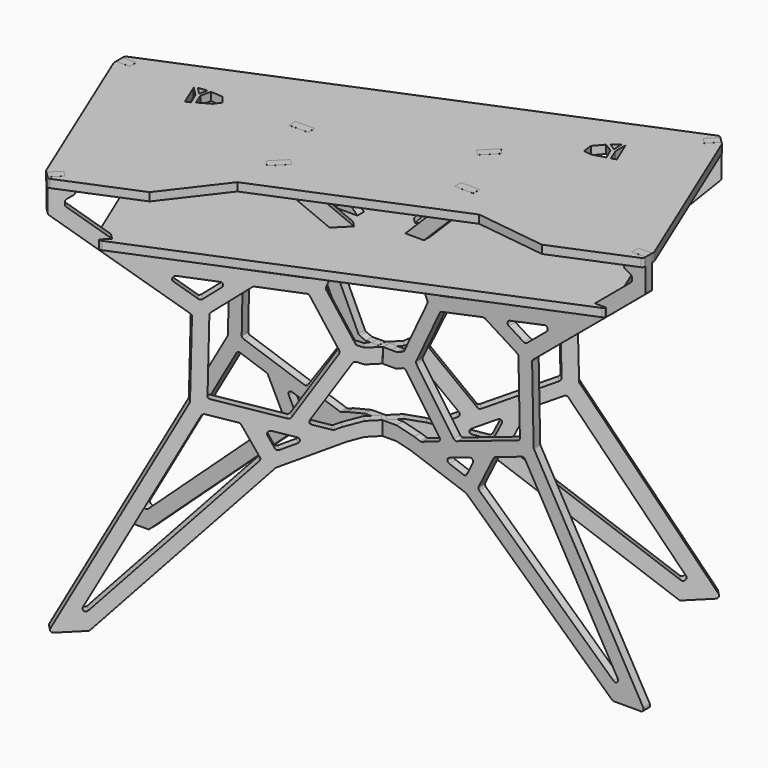
from build123d import *

# Parameters (mm, degrees)
F6_DEPTH  = 9.525
F7_DEPTH  = 9.525
F8_W      = 37.281513
F8_H      = 19.064931
F8_W_2    = 33.670588
F8_H_2    = 19.051635
F9_DEPTH  = 19.05
F10_DEPTH = 9.525
F11_DEPTH = 9.525
F13_DEPTH = 19.05


with BuildPart() as f6:
    # F4 (on face) → F6 (new body, symmetric)
    with BuildSketch(Plane(origin=(-60.899116, 60.899116, 0), x_dir=(-0.707107, -0.707107, 0), z_dir=(-0.707107, 0.707107, 0))):
        with BuildLine():
            ThreePointArc((-524.050759, -541.279179), (-524.021318, -547.612059), (-518.531923, -550.770031))
            Line((-518.531923, -550.770031), (-455.733476, -550.770031))
            ThreePointArc((-455.733476, -550.770031), (-453.422328, -550.334513), (-451.428203, -549.087698))
            Line((-451.428203, -549.087698), (-113.375128, -237.280804))
            ThreePointArc((-113.375128, -237.280804), (-112.346752, -236.509314), (-111.184061, -235.960765))
            Line((-111.184061, -235.960765), (17.108403, -190.661839))
            ThreePointArc((17.108403, -190.661839), (17.415521, -190.562105), (17.727311, -190.478113))
            Line((17.727311, -190.478113), (49.6691, -182.738825))
            Line((49.6691, -182.738825), (63.010707, -182.738825))
            Line((63.010707, -182.738825), (82.060707, -182.738825))
            Line((82.060707, -182.738825), (82.060707, -150.070156))
            Line((82.060707, -150.070156), (72.532403, -150.070156))
            Line((72.532403, -150.070156), (63.0041, -150.070156))
            Line((63.0041, -150.070156), (49.6691, -150.070156))
            Line((49.6691, -150.070156), (8.680172, -160.001506))
            ThreePointArc((8.680172, -160.001506), (8.368381, -160.085499), (8.061264, -160.185232))
            Line((8.061264, -160.185232), (-4.977376, -164.78906))
            ThreePointArc((-4.977376, -164.78906), (-7.049685, -165.151215), (-9.126592, -164.816437))
            Line((-9.126592, -164.816437), (-47.036335, -151.990897))
            ThreePointArc((-47.036335, -151.990897), (-51.032377, -147.963), (-50.213404, -142.348592))
            Line((-50.213404, -142.348592), (27.459192, -30.738162))
            ThreePointArc((27.459192, -30.738162), (30.889647, -28.270442), (35.109132, -28.501994))
            Line((35.109132, -28.501994), (49.6691, -34.555692))
            Line((49.6691, -34.555692), (63.0041, -34.555692))
            Line((63.0041, -34.555692), (82.060707, -34.555692))
            Line((82.060707, -34.555692), (82.060707, -17.363203))
            Line((82.060707, -17.363203), (90.203997, -17.363203))
            Line((90.203997, -17.363203), (90.203997, -34.555692))
            Line((90.203997, -34.555692), (109.253997, -34.555692))
            Line((109.253997, -34.555692), (122.588997, -34.555692))
            Line((122.588997, -34.555692), (137.148964, -28.501994))
            ThreePointArc((137.148964, -28.501994), (141.368449, -28.270442), (144.798905, -30.738162))
            Line((144.798905, -30.738162), (222.471501, -142.348592))
            ThreePointArc((222.471501, -142.348592), (223.290474, -147.963), (219.294432, -151.990897))
            Line((219.294432, -151.990897), (181.384688, -164.816437))
            ThreePointArc((181.384688, -164.816437), (179.307781, -165.151215), (177.235473, -164.78906))
            Line((177.235473, -164.78906), (164.196833, -160.185232))
            ThreePointArc((164.196833, -160.185232), (163.889715, -160.085499), (163.577925, -160.001506))
            Line((163.577925, -160.001506), (122.588997, -150.070156))
            Line((122.588997, -150.070156), (109.253997, -150.070156))
            Line((109.253997, -150.070156), (90.203997, -150.070156))
            Line((90.203997, -150.070156), (90.203997, -182.738825))
            Line((90.203997, -182.738825), (109.253997, -182.738825))
            Line((109.253997, -182.738825), (122.588997, -182.738825))
            Line((122.588997, -182.738825), (154.530785, -190.478113))
            ThreePointArc((154.530785, -190.478113), (154.842576, -190.562105), (155.149693, -190.661839))
            Line((155.149693, -190.661839), (283.442157, -235.960765))
            ThreePointArc((283.442157, -235.960765), (284.604848, -236.509314), (285.633225, -237.280804))
            Line((285.633225, -237.280804), (623.686299, -549.087698))
            ThreePointArc((623.686299, -549.087698), (625.680425, -550.334513), (627.991573, -550.770031))
            Line((627.991573, -550.770031), (690.790019, -550.770031))
            ThreePointArc((690.790019, -550.770031), (696.279414, -547.612059), (696.308855, -541.279179))
            Line((696.308855, -541.279179), (442.307693, -94.970124))
            ThreePointArc((442.307693, -94.970124), (441.704806, -93.51658), (441.477862, -91.959415))
            Line((441.477862, -91.959415), (437.901867, 82.485986))
            ThreePointArc((437.901867, 82.485986), (438.469635, 85.243622), (440.173857, 87.484724))
            Line((440.173857, 87.484724), (699.436917, 304.576421))
            ThreePointArc((699.436917, 304.576421), (701.113909, 306.758418), (701.710241, 309.445015))
            Line((701.710241, 309.445015), (701.710241, 382.679969))
            Line((701.710241, 382.679969), (669.960241, 382.679969))
            Line((669.960241, 382.679969), (669.960241, 363.629969))
            Line((669.960241, 363.629969), (650.910241, 363.629969))
            Line((650.910241, 363.629969), (650.910241, 348.246143))
            ThreePointArc((650.910241, 348.246143), (651.76098, 345.071143), (654.085241, 342.746882))
            Line((654.085241, 342.746882), (666.785241, 335.414534))
            ThreePointArc((666.785241, 335.414534), (669.109502, 333.090272), (669.960241, 329.915272))
            Line((669.960241, 329.915272), (669.960241, 324.270246))
            ThreePointArc((669.960241, 324.270246), (669.363909, 321.583649), (667.686917, 319.401652))
            Line((667.686917, 319.401652), (584.00339, 249.329969))
            Line((584.00339, 249.329969), (584.00339, 230.279969))
            Line((584.00339, 230.279969), (561.252813, 230.279969))
            Line((561.252813, 230.279969), (544.447581, 216.208252))
            ThreePointArc((544.447581, 216.208252), (543.146665, 215.365659), (541.680373, 214.86333))
            Line((541.680373, 214.86333), (224.215549, 147.959178))
            ThreePointArc((224.215549, 147.959178), (220.027078, 148.51285), (217.113075, 151.572006))
            Line((217.113075, 151.572006), (181.77823, 230.279969))
            Line((181.77823, 230.279969), (181.77823, 249.329969))
            Line((181.77823, 249.329969), (164.173635, 249.329969))
            Line((164.173635, 249.329969), (164.173635, 230.279969))
            Line((164.173635, 230.279969), (146.569041, 230.279969))
            Line((146.569041, 230.279969), (192.90485, 128.059493))
            ThreePointArc((192.90485, 128.059493), (193.471166, 125.397137), (192.870757, 122.742261))
            Line((192.870757, 122.742261), (139.352752, 8.592927))
            ThreePointArc((139.352752, 8.592927), (137.992687, 6.699867), (136.041152, 5.425127))
            Line((136.041152, 5.425127), (122.58239, -0.170715))
            Line((122.58239, -0.170715), (76.599707, -0.170715))
            Line((76.599707, -0.170715), (63.0041, -0.170715))
            Line((63.0041, -0.170715), (49.6691, -0.170715))
            Line((49.6691, -0.170715), (36.210337, 5.425127))
            ThreePointArc((36.210337, 5.425127), (34.258802, 6.699867), (32.898738, 8.592927))
            Line((32.898738, 8.592927), (-20.619268, 122.742261))
            ThreePointArc((-20.619268, 122.742261), (-21.219676, 125.397137), (-20.65336, 128.059493))
            Line((-20.65336, 128.059493), (25.682449, 230.279969))
            Line((25.682449, 230.279969), (8.081158, 230.279969))
            Line((8.081158, 230.279969), (8.081158, 249.329969))
            Line((8.081158, 249.329969), (-9.520133, 249.329969))
            Line((-9.520133, 249.329969), (-9.520133, 230.279969))
            Line((-9.520133, 230.279969), (-44.854979, 151.572006))
            ThreePointArc((-44.854979, 151.572006), (-47.768981, 148.51285), (-51.957452, 147.959178))
            Line((-51.957452, 147.959178), (-369.422277, 214.86333))
            ThreePointArc((-369.422277, 214.86333), (-370.888568, 215.365659), (-372.189485, 216.208252))
            Line((-372.189485, 216.208252), (-388.994717, 230.279969))
            Line((-388.994717, 230.279969), (-411.745294, 230.279969))
            Line((-411.745294, 230.279969), (-411.745294, 249.329969))
            Line((-411.745294, 249.329969), (-495.428821, 319.401652))
            ThreePointArc((-495.428821, 319.401652), (-497.105813, 321.583649), (-497.702145, 324.270246))
            Line((-497.702145, 324.270246), (-497.702145, 329.915272))
            ThreePointArc((-497.702145, 329.915272), (-496.851406, 333.090272), (-494.527145, 335.414534))
            Line((-494.527145, 335.414534), (-481.827145, 342.746882))
            ThreePointArc((-481.827145, 342.746882), (-479.502883, 345.071143), (-478.652145, 348.246143))
            Line((-478.652145, 348.246143), (-478.652145, 363.629969))
            Line((-478.652145, 363.629969), (-497.702145, 363.629969))
            Line((-497.702145, 363.629969), (-497.702145, 382.679969))
            Line((-497.702145, 382.679969), (-529.452145, 382.679969))
            Line((-529.452145, 382.679969), (-529.452145, 309.445015))
            ThreePointArc((-529.452145, 309.445015), (-528.855813, 306.758418), (-527.178821, 304.576421))
            Line((-527.178821, 304.576421), (-267.915761, 87.484724))
            ThreePointArc((-267.915761, 87.484724), (-266.211538, 85.243622), (-265.64377, 82.485986))
            Line((-265.64377, 82.485986), (-269.219766, -91.959415))
            ThreePointArc((-269.219766, -91.959415), (-269.446709, -93.51658), (-270.049596, -94.970124))
            Line((-270.049596, -94.970124), (-524.050759, -541.279179))
        make_face()
        with BuildLine():
            Line((-142.797785, -221.225695), (-454.974453, -509.165206))
            ThreePointArc((-454.974453, -509.165206), (-463.230857, -509.468562), (-464.798562, -501.356687))
            Line((-464.798562, -501.356687), (-249.208399, -122.540144))
            ThreePointArc((-249.208399, -122.540144), (-245.947784, -119.746105), (-241.654553, -119.665912))
            Line((-241.654553, -119.665912), (-179.868397, -140.569268))
            ThreePointArc((-179.868397, -140.569268), (-177.727036, -141.801003), (-176.217746, -143.756674))
            Line((-176.217746, -143.756674), (-141.417398, -213.73035))
            ThreePointArc((-141.417398, -213.73035), (-140.858081, -217.708139), (-142.797785, -221.225695))
        make_face(mode=Mode.SUBTRACT)
        with BuildLine():
            Line((-72.845969, -188.752856), (-106.280271, -200.55821))
            ThreePointArc((-106.280271, -200.55821), (-110.778857, -200.455843), (-114.080137, -197.39818))
            Line((-114.080137, -197.39818), (-127.902653, -169.605005))
            ThreePointArc((-127.902653, -169.605005), (-127.00034, -162.600956), (-120.181982, -160.762244))
            Line((-120.181982, -160.762244), (-72.925165, -176.750065))
            ThreePointArc((-72.925165, -176.750065), (-68.610313, -182.723252), (-72.845969, -188.752856))
        make_face(mode=Mode.SUBTRACT)
        with BuildLine():
            Line((300.160749, -169.605005), (286.338234, -197.39818))
            ThreePointArc((286.338234, -197.39818), (283.036953, -200.455843), (278.538367, -200.55821))
            Line((278.538367, -200.55821), (245.104066, -188.752856))
            ThreePointArc((245.104066, -188.752856), (240.86841, -182.723252), (245.183262, -176.750065))
            Line((245.183262, -176.750065), (292.440078, -160.762244))
            ThreePointArc((292.440078, -160.762244), (299.258436, -162.600956), (300.160749, -169.605005))
        make_face(mode=Mode.SUBTRACT)
        with BuildLine():
            Line((313.675494, -213.73035), (348.475843, -143.756674))
            ThreePointArc((348.475843, -143.756674), (349.985132, -141.801003), (352.126494, -140.569268))
            Line((352.126494, -140.569268), (413.91265, -119.665912))
            ThreePointArc((413.91265, -119.665912), (418.205881, -119.746105), (421.466495, -122.540144))
            Line((421.466495, -122.540144), (637.056659, -501.356687))
            ThreePointArc((637.056659, -501.356687), (635.488953, -509.468562), (627.23255, -509.165206))
            Line((627.23255, -509.165206), (315.055882, -221.225695))
            ThreePointArc((315.055882, -221.225695), (313.116178, -217.708139), (313.675494, -213.73035))
        make_face(mode=Mode.SUBTRACT)
        with BuildLine():
            ThreePointArc((-299.692464, 155.503495), (-301.326976, 163.147849), (-294.30632, 166.585606))
            Line((-294.30632, 166.585606), (-213.757912, 149.610425))
            ThreePointArc((-213.757912, 149.610425), (-208.815417, 144.50842), (-211.696495, 138.015493))
            Line((-211.696495, 138.015493), (-246.177685, 116.416685))
            ThreePointArc((-246.177685, 116.416685), (-249.984783, 115.463101), (-253.625247, 116.929506))
            Line((-253.625247, 116.929506), (-299.692464, 155.503495))
        make_face(mode=Mode.SUBTRACT)
        with BuildLine():
            ThreePointArc((-55.429325, 116.243453), (-52.795308, 115.007027), (-50.989332, 112.725525))
            Line((-50.989332, 112.725525), (3.650307, -3.816157))
            ThreePointArc((3.650307, -3.816157), (4.228035, -7.0495), (3.112925, -10.138967))
            Line((3.112925, -10.138967), (-83.623276, -134.773202))
            ThreePointArc((-83.623276, -134.773202), (-86.848167, -137.177033), (-90.870365, -137.161065))
            Line((-90.870365, -137.161065), (-232.992888, -89.078488))
            ThreePointArc((-232.992888, -89.078488), (-235.976659, -86.953691), (-237.290389, -83.534368))
            Line((-237.290389, -83.534368), (-233.870927, 83.274967))
            ThreePointArc((-233.870927, 83.274967), (-233.045972, 86.277094), (-230.893146, 88.52624))
            Line((-230.893146, 88.52624), (-155.783889, 135.574221))
            ThreePointArc((-155.783889, 135.574221), (-153.524515, 136.444769), (-151.103535, 136.406323))
            Line((-151.103535, 136.406323), (-55.429325, 116.243453))
        make_face(mode=Mode.SUBTRACT)
        with BuildLine():
            Line((328.041986, 135.574221), (403.151243, 88.52624))
            ThreePointArc((403.151243, 88.52624), (405.304068, 86.277094), (406.129023, 83.274967))
            Line((406.129023, 83.274967), (409.548485, -83.534368))
            ThreePointArc((409.548485, -83.534368), (408.234756, -86.953691), (405.250984, -89.078488))
            Line((405.250984, -89.078488), (263.128461, -137.161065))
            ThreePointArc((263.128461, -137.161065), (259.106264, -137.177033), (255.881372, -134.773202))
            Line((255.881372, -134.773202), (169.145172, -10.138967))
            ThreePointArc((169.145172, -10.138967), (168.030062, -7.0495), (168.60779, -3.816157))
            Line((168.60779, -3.816157), (223.247429, 112.725525))
            ThreePointArc((223.247429, 112.725525), (225.053405, 115.007027), (227.687422, 116.243453))
            Line((227.687422, 116.243453), (323.361632, 136.406323))
            ThreePointArc((323.361632, 136.406323), (325.782612, 136.444769), (328.041986, 135.574221))
        make_face(mode=Mode.SUBTRACT)
        with BuildLine():
            Line((471.950561, 155.503495), (425.883343, 116.929506))
            ThreePointArc((425.883343, 116.929506), (422.24288, 115.463101), (418.435782, 116.416685))
            Line((418.435782, 116.416685), (383.954591, 138.015493))
            ThreePointArc((383.954591, 138.015493), (381.073514, 144.50842), (386.016009, 149.610425))
            Line((386.016009, 149.610425), (466.564417, 166.585606))
            ThreePointArc((466.564417, 166.585606), (473.585072, 163.147849), (471.950561, 155.503495))
        make_face(mode=Mode.SUBTRACT)
    extrude(amount=F6_DEPTH, both=True)


with BuildPart() as f7:
    # F5 (on Front) → F7 (new body, symmetric)
    with BuildSketch(Plane.XZ):
        with BuildLine():
            ThreePointArc((-731.772078, -541.282135), (-731.742637, -547.615015), (-726.253242, -550.772987))
            Line((-726.253242, -550.772987), (-663.454796, -550.772987))
            ThreePointArc((-663.454796, -550.772987), (-661.143648, -550.337469), (-659.149522, -549.090655))
            Line((-659.149522, -549.090655), (-321.096448, -237.283761))
            ThreePointArc((-321.096448, -237.283761), (-320.068071, -236.51227), (-318.90538, -235.963721))
            Line((-318.90538, -235.963721), (-190.612916, -190.664795))
            ThreePointArc((-190.612916, -190.664795), (-190.305799, -190.565061), (-189.994008, -190.481069))
            Line((-189.994008, -190.481069), (-158.05222, -182.741781))
            Line((-158.05222, -182.741781), (-131.121613, -182.741781))
            Line((-131.121613, -182.741781), (-85.132323, -182.741781))
            Line((-85.132323, -182.741781), (-53.190534, -190.481069))
            ThreePointArc((-53.190534, -190.481069), (-52.878744, -190.565061), (-52.571626, -190.664795))
            Line((-52.571626, -190.664795), (75.720838, -235.963721))
            ThreePointArc((75.720838, -235.963721), (76.883529, -236.51227), (77.911905, -237.283761))
            Line((77.911905, -237.283761), (415.96498, -549.090655))
            ThreePointArc((415.96498, -549.090655), (417.959105, -550.337469), (420.270253, -550.772987))
            Line((420.270253, -550.772987), (483.0687, -550.772987))
            ThreePointArc((483.0687, -550.772987), (488.558095, -547.615015), (488.587536, -541.282135))
            Line((488.587536, -541.282135), (234.586373, -94.97308))
            ThreePointArc((234.586373, -94.97308), (233.983486, -93.519536), (233.756543, -91.962371))
            Line((233.756543, -91.962371), (230.180547, 82.48303))
            ThreePointArc((230.180547, 82.48303), (230.748315, 85.240665), (232.452538, 87.481768))
            Line((232.452538, 87.481768), (491.715598, 304.573464))
            ThreePointArc((491.715598, 304.573464), (493.39259, 306.755462), (493.988922, 309.442059))
            Line((493.988922, 309.442059), (493.988922, 382.677013))
            Line((493.988922, 382.677013), (462.238922, 382.677013))
            Line((462.238922, 382.677013), (462.238922, 363.627013))
            Line((462.238922, 363.627013), (443.188922, 363.627013))
            Line((443.188922, 363.627013), (443.188922, 348.243187))
            ThreePointArc((443.188922, 348.243187), (444.03966, 345.068187), (446.363922, 342.743926))
            Line((446.363922, 342.743926), (459.063922, 335.411577))
            ThreePointArc((459.063922, 335.411577), (461.388183, 333.087316), (462.238922, 329.912316))
            Line((462.238922, 329.912316), (462.238922, 324.26729))
            ThreePointArc((462.238922, 324.26729), (461.64259, 321.580693), (459.965598, 319.398696))
            Line((459.965598, 319.398696), (376.282071, 249.327013))
            Line((376.282071, 249.327013), (376.282071, 230.277013))
            Line((376.282071, 230.277013), (353.531494, 230.277013))
            Line((353.531494, 230.277013), (336.726262, 216.205296))
            ThreePointArc((336.726262, 216.205296), (335.425345, 215.362703), (333.959054, 214.860373))
            Line((333.959054, 214.860373), (16.494229, 147.956222))
            ThreePointArc((16.494229, 147.956222), (12.305758, 148.509894), (9.391756, 151.56905))
            Line((9.391756, 151.56905), (-25.94309, 230.277013))
            Line((-25.94309, 230.277013), (-25.94309, 249.335923))
            Line((-25.94309, 249.335923), (-42.760202, 249.335923))
            Line((-42.760202, 249.335923), (-42.760202, 230.283131))
            Line((-42.760202, 230.283131), (-59.577315, 230.28925))
            Line((-59.577315, 230.28925), (-13.241506, 128.068774))
            ThreePointArc((-13.241506, 128.068774), (-12.67519, 125.406418), (-13.275599, 122.751542))
            Line((-13.275599, 122.751542), (-66.793604, 8.602208))
            ThreePointArc((-66.793604, 8.602208), (-68.153669, 6.709148), (-70.105204, 5.434408))
            Line((-70.105204, 5.434408), (-83.563966, -0.161434))
            Line((-83.563966, -0.161434), (-90.43774, -0.161434))
            Line((-90.43774, -0.161434), (-96.898966, -0.161434))
            Line((-96.898966, -0.161434), (-115.948282, 0))
            Line((-115.948282, 0), (-116.830051, 0))
            Line((-116.830051, 0), (-116.830051, -17.357249))
            Line((-116.830051, -17.357249), (-116.830051, -24.2266))
            Line((-116.830051, -24.2266), (-121.592551, -24.2266))
            Line((-121.592551, -24.2266), (-126.355051, -24.2266))
            Line((-126.355051, -24.2266), (-126.355051, -17.357249))
            Line((-126.355051, -17.357249), (-126.355051, -0.014853))
            Line((-126.355051, -0.014853), (-143.68701, -0.16476))
            Line((-143.68701, -0.16476), (-157.02201, -0.16476))
            Line((-157.02201, -0.16476), (-170.480773, 5.431081))
            ThreePointArc((-170.480773, 5.431081), (-172.432308, 6.705821), (-173.792373, 8.598882))
            Line((-173.792373, 8.598882), (-227.310378, 122.748216))
            ThreePointArc((-227.310378, 122.748216), (-227.910787, 125.403091), (-227.34447, 128.065448))
            Line((-227.34447, 128.065448), (-181.008661, 230.285923))
            Line((-181.008661, 230.285923), (-199.640162, 230.285923))
            Line((-199.640162, 230.285923), (-199.640162, 249.335923))
            Line((-199.640162, 249.335923), (-218.271662, 249.335923))
            Line((-218.271662, 249.335923), (-218.271662, 230.285923))
            Line((-218.271662, 230.285923), (-252.548061, 151.632885))
            ThreePointArc((-252.548061, 151.632885), (-255.459236, 148.525803), (-259.678772, 147.956222))
            Line((-259.678772, 147.956222), (-577.143596, 214.860373))
            ThreePointArc((-577.143596, 214.860373), (-578.609888, 215.362703), (-579.910804, 216.205296))
            Line((-579.910804, 216.205296), (-596.716036, 230.277013))
            Line((-596.716036, 230.277013), (-619.466613, 230.277013))
            Line((-619.466613, 230.277013), (-619.466613, 249.327013))
            Line((-619.466613, 249.327013), (-703.15014, 319.398696))
            ThreePointArc((-703.15014, 319.398696), (-704.827132, 321.580693), (-705.423464, 324.26729))
            Line((-705.423464, 324.26729), (-705.423464, 329.912316))
            ThreePointArc((-705.423464, 329.912316), (-704.572725, 333.087316), (-702.248464, 335.411577))
            Line((-702.248464, 335.411577), (-689.548464, 342.743926))
            ThreePointArc((-689.548464, 342.743926), (-687.224203, 345.068187), (-686.373464, 348.243187))
            Line((-686.373464, 348.243187), (-686.373464, 363.627013))
            Line((-686.373464, 363.627013), (-705.423464, 363.627013))
            Line((-705.423464, 363.627013), (-705.423464, 382.677013))
            Line((-705.423464, 382.677013), (-737.173464, 382.677013))
            Line((-737.173464, 382.677013), (-737.173464, 309.442059))
            ThreePointArc((-737.173464, 309.442059), (-736.577132, 306.755462), (-734.90014, 304.573464))
            Line((-734.90014, 304.573464), (-475.63708, 87.481768))
            ThreePointArc((-475.63708, 87.481768), (-473.932858, 85.240665), (-473.36509, 82.48303))
            Line((-473.36509, 82.48303), (-476.941085, -91.962371))
            ThreePointArc((-476.941085, -91.962371), (-477.168029, -93.519536), (-477.770916, -94.97308))
            Line((-477.770916, -94.97308), (-731.772078, -541.282135))
        make_face()
        with BuildLine():
            Line((-350.519105, -221.228651), (-662.695773, -509.168162))
            ThreePointArc((-662.695773, -509.168162), (-670.952176, -509.471518), (-672.519882, -501.359643))
            Line((-672.519882, -501.359643), (-456.929718, -122.543101))
            ThreePointArc((-456.929718, -122.543101), (-453.669104, -119.749061), (-449.375873, -119.668869))
            Line((-449.375873, -119.668869), (-387.589717, -140.572224))
            ThreePointArc((-387.589717, -140.572224), (-385.448355, -141.80396), (-383.939066, -143.75963))
            Line((-383.939066, -143.75963), (-349.138717, -213.733306))
            ThreePointArc((-349.138717, -213.733306), (-348.579401, -217.711096), (-350.519105, -221.228651))
        make_face(mode=Mode.SUBTRACT)
        with BuildLine():
            Line((-280.567289, -188.755812), (-314.00159, -200.561166))
            ThreePointArc((-314.00159, -200.561166), (-318.500176, -200.4588), (-321.801457, -197.401137))
            Line((-321.801457, -197.401137), (-335.623972, -169.607961))
            ThreePointArc((-335.623972, -169.607961), (-334.721659, -162.603912), (-327.903301, -160.7652))
            Line((-327.903301, -160.7652), (-280.646485, -176.753021))
            ThreePointArc((-280.646485, -176.753021), (-276.331633, -182.726208), (-280.567289, -188.755812))
        make_face(mode=Mode.SUBTRACT)
        with BuildLine():
            Line((-158.05222, -150.073112), (-199.041148, -160.004463))
            ThreePointArc((-199.041148, -160.004463), (-199.352938, -160.088455), (-199.660056, -160.188189))
            Line((-199.660056, -160.188189), (-212.698696, -164.792016))
            ThreePointArc((-212.698696, -164.792016), (-214.771004, -165.154171), (-216.847911, -164.819393))
            Line((-216.847911, -164.819393), (-254.757655, -151.993853))
            ThreePointArc((-254.757655, -151.993853), (-258.753697, -147.965957), (-257.934724, -142.351548))
            Line((-257.934724, -142.351548), (-180.262128, -30.741119))
            ThreePointArc((-180.262128, -30.741119), (-176.831672, -28.273398), (-172.612187, -28.504951))
            Line((-172.612187, -28.504951), (-158.05222, -34.558648))
            Line((-158.05222, -34.558648), (-85.132323, -34.558648))
            Line((-85.132323, -34.558648), (-70.572355, -28.504951))
            ThreePointArc((-70.572355, -28.504951), (-66.35287, -28.273398), (-62.922415, -30.741119))
            Line((-62.922415, -30.741119), (14.750181, -142.351548))
            ThreePointArc((14.750181, -142.351548), (15.569154, -147.965957), (11.573112, -151.993853))
            Line((11.573112, -151.993853), (-26.336631, -164.819393))
            ThreePointArc((-26.336631, -164.819393), (-28.413538, -165.154171), (-30.485847, -164.792016))
            Line((-30.485847, -164.792016), (-43.524487, -160.188189))
            ThreePointArc((-43.524487, -160.188189), (-43.831604, -160.088455), (-44.143395, -160.004463))
            Line((-44.143395, -160.004463), (-85.132323, -150.073112))
            Line((-85.132323, -150.073112), (-131.121613, -150.073112))
            Line((-131.121613, -150.073112), (-158.05222, -150.073112))
        make_face(mode=Mode.SUBTRACT)
        with BuildLine():
            Line((92.43943, -169.607961), (78.616914, -197.401137))
            ThreePointArc((78.616914, -197.401137), (75.315634, -200.4588), (70.817048, -200.561166))
            Line((70.817048, -200.561166), (37.382746, -188.755812))
            ThreePointArc((37.382746, -188.755812), (33.14709, -182.726208), (37.461942, -176.753021))
            Line((37.461942, -176.753021), (84.718759, -160.7652))
            ThreePointArc((84.718759, -160.7652), (91.537117, -162.603912), (92.43943, -169.607961))
        make_face(mode=Mode.SUBTRACT)
        with BuildLine():
            Line((105.954175, -213.733306), (140.754523, -143.75963))
            ThreePointArc((140.754523, -143.75963), (142.263813, -141.80396), (144.405175, -140.572224))
            Line((144.405175, -140.572224), (206.19133, -119.668869))
            ThreePointArc((206.19133, -119.668869), (210.484561, -119.749061), (213.745176, -122.543101))
            Line((213.745176, -122.543101), (429.335339, -501.359643))
            ThreePointArc((429.335339, -501.359643), (427.767634, -509.471518), (419.51123, -509.168162))
            Line((419.51123, -509.168162), (107.334562, -221.228651))
            ThreePointArc((107.334562, -221.228651), (105.394858, -217.711096), (105.954175, -213.733306))
        make_face(mode=Mode.SUBTRACT)
        with BuildLine():
            ThreePointArc((-507.413784, 155.500538), (-509.048295, 163.144893), (-502.02764, 166.58265))
            Line((-502.02764, 166.58265), (-421.479232, 149.607469))
            ThreePointArc((-421.479232, 149.607469), (-416.536737, 144.505464), (-419.417814, 138.012537))
            Line((-419.417814, 138.012537), (-453.899005, 116.413729))
            ThreePointArc((-453.899005, 116.413729), (-457.706103, 115.460145), (-461.346566, 116.926549))
            Line((-461.346566, 116.926549), (-507.413784, 155.500538))
        make_face(mode=Mode.SUBTRACT)
        with BuildLine():
            ThreePointArc((-263.150645, 116.240497), (-260.516628, 115.00407), (-258.710652, 112.722569))
            Line((-258.710652, 112.722569), (-204.071013, -3.819113))
            ThreePointArc((-204.071013, -3.819113), (-203.493285, -7.052456), (-204.608395, -10.141923))
            Line((-204.608395, -10.141923), (-291.344595, -134.776159))
            ThreePointArc((-291.344595, -134.776159), (-294.569487, -137.179989), (-298.591684, -137.164021))
            Line((-298.591684, -137.164021), (-440.714207, -89.081444))
            ThreePointArc((-440.714207, -89.081444), (-443.697979, -86.956647), (-445.011708, -83.537324))
            Line((-445.011708, -83.537324), (-441.592246, 83.272011))
            ThreePointArc((-441.592246, 83.272011), (-440.767291, 86.274138), (-438.614466, 88.523284))
            Line((-438.614466, 88.523284), (-363.505209, 135.571265))
            ThreePointArc((-363.505209, 135.571265), (-361.245835, 136.441813), (-358.824855, 136.403367))
            Line((-358.824855, 136.403367), (-263.150645, 116.240497))
        make_face(mode=Mode.SUBTRACT)
        with BuildLine():
            Line((120.320666, 135.571265), (195.429923, 88.523284))
            ThreePointArc((195.429923, 88.523284), (197.582749, 86.274138), (198.407704, 83.272011))
            Line((198.407704, 83.272011), (201.827166, -83.537324))
            ThreePointArc((201.827166, -83.537324), (200.513436, -86.956647), (197.529665, -89.081444))
            Line((197.529665, -89.081444), (55.407142, -137.164021))
            ThreePointArc((55.407142, -137.164021), (51.384944, -137.179989), (48.160053, -134.776159))
            Line((48.160053, -134.776159), (-38.576148, -10.141923))
            ThreePointArc((-38.576148, -10.141923), (-39.691258, -7.052456), (-39.11353, -3.819113))
            Line((-39.11353, -3.819113), (15.526109, 112.722569))
            ThreePointArc((15.526109, 112.722569), (17.332085, 115.00407), (19.966102, 116.240497))
            Line((19.966102, 116.240497), (115.640312, 136.403367))
            ThreePointArc((115.640312, 136.403367), (118.061292, 136.441813), (120.320666, 135.571265))
        make_face(mode=Mode.SUBTRACT)
        with BuildLine():
            Line((264.229241, 155.500538), (218.162024, 116.926549))
            ThreePointArc((218.162024, 116.926549), (214.52156, 115.460145), (210.714462, 116.413729))
            Line((210.714462, 116.413729), (176.233272, 138.012537))
            ThreePointArc((176.233272, 138.012537), (173.352194, 144.505464), (178.294689, 149.607469))
            Line((178.294689, 149.607469), (258.843097, 166.58265))
            ThreePointArc((258.843097, 166.58265), (265.863753, 163.144893), (264.229241, 155.500538))
        make_face(mode=Mode.SUBTRACT)
    extrude(amount=F7_DEPTH, both=True)


with BuildPart() as f9:
    # F8 (on offset) → F9 (new body)
    with BuildSketch(Plane.XY.offset(230.234668)):
        with BuildLine():
            Line((234.283078, 377.871527), (-640.737263, 15.450086))
            ThreePointArc((-640.737263, 15.450086), (-642.797383, 14.073627), (-644.173938, 12.013571))
            Line((-644.173938, 12.013571), (-645.187096, 9.567752))
            Line((-645.187096, 9.567752), (-619.439542, 9.525267))
            Line((-619.439542, 9.525267), (-619.439542, -9.543091))
            Line((-619.439542, -9.543091), (-646.895348, -9.540451))
            Line((-646.895348, -9.540451), (-498.745799, -363.459061))
            Line((-498.745799, -363.459061), (-480.592906, -345.297128))
            Line((-480.592906, -345.297128), (-467.109323, -358.788699))
            Line((-467.109323, -358.788699), (-483.910549, -375.645465))
            Line((-483.910549, -375.645465), (-481.457992, -376.663494))
            ThreePointArc((-481.457992, -376.663494), (-479.028314, -377.148674), (-476.597914, -376.667124))
            Line((-476.597914, -376.667124), (397.364536, -15.42455))
            ThreePointArc((397.364536, -15.42455), (399.425651, -14.049582), (400.803697, -11.990522))
            Line((400.803697, -11.990522), (401.810107, -9.565957))
            Line((401.810107, -9.565957), (376.218528, -9.559277))
            Line((376.218528, -9.559277), (376.218528, 9.536125))
            Line((376.218528, 9.536125), (403.597767, 9.566671))
            Line((403.597767, 9.566671), (256.359916, 364.653467))
            Line((256.359916, 364.653467), (236.980885, 345.253676))
            Line((236.980885, 345.253676), (223.499671, 358.78405))
            Line((223.499671, 358.78405), (241.57475, 376.864149))
            Line((241.57475, 376.864149), (239.143157, 377.871414))
            ThreePointArc((239.143157, 377.871414), (236.713129, 378.354835), (234.283078, 377.871527))
        make_face()
        Polygon((-157.71706, -49.46328), (-182.702452, -74.37285), (-196.277778, -60.756203), (-171.292386, -35.846633), align=None, mode=Mode.SUBTRACT)
        with Locations((-199.661433, 0.016484)):
            Rectangle(F8_W, F8_H, mode=Mode.SUBTRACT)
        with Locations((-42.759263, 0.030013)):
            Rectangle(F8_W_2, F8_H_2, mode=Mode.SUBTRACT)
        Polygon((-47.431946, 60.909837), (-72.331481, 36.013104), (-85.796919, 49.480057), (-60.897384, 74.376791), align=None, mode=Mode.SUBTRACT)
    extrude(amount=F9_DEPTH)


with BuildPart() as f10:
    # F5 (on Front) → F10 (new body, symmetric)
    with BuildSketch(Plane.XZ):
        Polygon((-221.060593, 249.335923), (-218.271662, 249.335923), (-199.640162, 249.335923), (-199.640162, 230.285923), (-181.008661, 230.285923), (-181.008661, 249.335923), (-176.159312, 249.335923), (-290.459312, 363.635923), (-290.459312, 382.685923), (-335.360593, 382.685923), (-335.360593, 363.635923), align=None)
        Polygon((-42.760202, 249.335923), (-25.94309, 249.335923), (-21.09374, 249.335923), (93.20626, 363.635923), (93.20626, 382.685923), (49.873336, 382.685923), (49.873336, 363.635923), (-64.426664, 249.335923), (-59.577315, 249.335923), (-59.577315, 230.28925), (-42.760202, 230.283131), align=None)
    extrude(amount=F10_DEPTH, both=True)


with BuildPart() as f11:
    # F4 (on face) → F11 (new body, symmetric)
    with BuildSketch(Plane(origin=(-60.899116, 60.899116, 0), x_dir=(-0.707107, -0.707107, 0), z_dir=(-0.707107, 0.707107, 0))):
        Polygon((146.569041, 249.329969), (146.569041, 230.279969), (164.173635, 230.279969), (164.173635, 249.329969), (181.77823, 249.329969), (186.627579, 249.329969), (300.927579, 363.629969), (300.927579, 382.679969), (256.019691, 382.679969), (256.019691, 363.629969), (141.719691, 249.329969), align=None)
        Polygon((-14.369483, 249.329969), (-9.520133, 249.329969), (8.081158, 249.329969), (8.081158, 230.279969), (25.682449, 230.279969), (25.682449, 249.329969), (30.531798, 249.329969), (-83.768202, 363.629969), (-83.768202, 382.679969), (-128.669483, 382.679969), (-128.669483, 363.629969), align=None)
    extrude(amount=F11_DEPTH, both=True)


with BuildPart() as f13:
    # F12 (on offset) → F13 (new body)
    with BuildSketch(Plane.XY.offset(363.584668)):
        with BuildLine():
            Line((494.032661, -11.682581), (494.03968, -9.505743))
            Line((494.03968, -9.505743), (462.244928, -9.505743))
            Line((462.244928, -9.505743), (462.238729, 9.565871))
            Line((462.238729, 9.565871), (493.988186, 9.527327))
            Line((493.988186, 9.527327), (493.991775, 14.610591))
            ThreePointArc((493.991775, 14.610591), (493.869955, 15.852935), (493.507447, 17.047442))
            Line((493.507447, 17.047442), (325.214084, 422.888039))
            ThreePointArc((325.214084, 422.888039), (324.624201, 423.989588), (323.83003, 424.954295))
            Line((323.83003, 424.954295), (320.229739, 428.540975))
            Line((320.229739, 428.540975), (297.765158, 406.046366))
            Line((297.765158, 406.046366), (284.268223, 419.524557))
            Line((284.268223, 419.524557), (306.762406, 442.050021))
            Line((306.762406, 442.050021), (305.270648, 443.539707))
            ThreePointArc((305.270648, 443.539707), (302.020129, 445.27491), (298.353278, 444.912961))
            Line((298.353278, 444.912961), (-733.248518, 17.542815))
            ThreePointArc((-733.248518, 17.542815), (-736.104427, 15.194527), (-737.168113, 11.653448))
            Line((-737.168113, 11.653448), (-737.160585, 9.562699))
            Line((-737.160585, 9.562699), (-705.39635, 9.562699))
            Line((-705.39635, 9.562699), (-705.39635, -9.51674))
            Line((-705.39635, -9.51674), (-737.201388, -9.511093))
            Line((-737.201388, -9.511093), (-737.204977, -14.596738))
            ThreePointArc((-737.204977, -14.596738), (-737.083601, -15.836836), (-736.7224, -17.029358))
            Line((-736.7224, -17.029358), (-568.762329, -422.892596))
            ThreePointArc((-568.762329, -422.892596), (-568.174653, -423.992457), (-567.38336, -424.95626))
            Line((-567.38336, -424.95626), (-563.784477, -428.552457))
            Line((-563.784477, -428.552457), (-541.353284, -406.104515))
            Line((-541.353284, -406.104515), (-527.891413, -419.557576))
            Line((-527.891413, -419.557576), (-550.3425, -442.023367))
            Line((-550.3425, -442.023367), (-548.821002, -443.530615))
            ThreePointArc((-548.821002, -443.530615), (-545.576542, -445.250231), (-541.922619, -444.886298))
            Line((-541.922619, -444.886298), (-368.369051, -373.019159))
            Line((-368.369051, -373.019159), (-268.509628, -242.86214))
            Line((-268.509628, -242.86214), (-57.316508, -155.366848))
            Line((-57.316508, -155.366848), (153.876612, -67.871556))
            Line((153.876612, -67.871556), (316.774719, -89.306624))
            Line((316.774719, -89.306624), (490.112125, -17.528996))
            ThreePointArc((490.112125, -17.528996), (492.956649, -15.19876), (494.032661, -11.682581))
        make_face()
        Polygon((-541.997652, -22.450704), (-530.059667, -50.354583), (-540.900155, -54.992417), (-562.607341, -1.846424), align=None, mode=Mode.SUBTRACT)
        Polygon((-555.890438, 1.99315), (-535.554196, 4.814601), (-539.951762, -14.885941), align=None, mode=Mode.SUBTRACT)
        Polygon((-485.180445, -15.781369), (-496.035347, -30.533432), (-523.059569, -45.230919), (-533.139491, -19.317631), (-527.828751, 4.891163), (-499.587626, 2.828009), align=None, mode=Mode.SUBTRACT)
        Polygon((-266.952544, -158.637971), (-280.487657, -145.145357), (-248.668134, -113.359056), (-235.16354, -126.862988), align=None, mode=Mode.SUBTRACT)
        Polygon((-335.424125, -9.561681), (-335.424125, 9.569103), (-290.410519, 9.560474), (-290.422142, -9.561681), align=None, mode=Mode.SUBTRACT)
        Polygon((49.826827, -9.561926), (49.826827, 9.569103), (93.227364, 9.549939), (93.235299, -9.546224), align=None, mode=Mode.SUBTRACT)
        Polygon((5.069195, 113.376543), (-8.423717, 126.869068), (23.359437, 158.665406), (36.868189, 145.131037), align=None, mode=Mode.SUBTRACT)
        Polygon((143.500015, 269.253075), (162.007824, 290.683866), (182.883039, 277.323663), (194.08226, 251.874089), (164.581701, 243.1539), (146.474481, 245.907232), align=None, mode=Mode.SUBTRACT)
        Polygon((167.523965, 296.093166), (183.897302, 308.480144), (184.565321, 285.274565), align=None, mode=Mode.SUBTRACT)
        Polygon((191.361591, 281.373024), (191.361591, 310.515702), (213.599131, 257.589429), (202.65488, 253.202054), align=None, mode=Mode.SUBTRACT)
    extrude(amount=F13_DEPTH)


solid = Compound([f6.part, f7.part, f9.part, f10.part, f11.part, f13.part])
